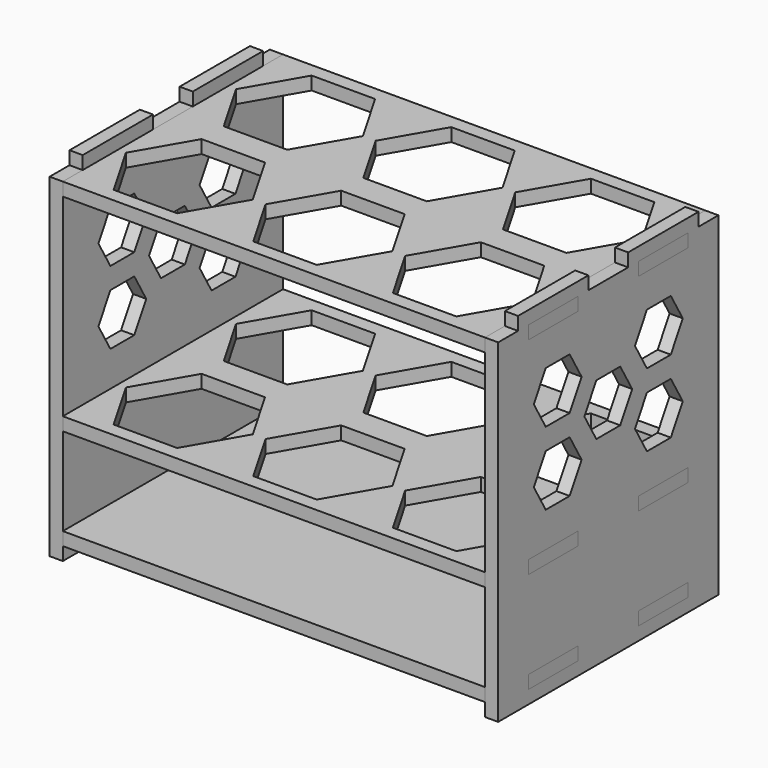
from build123d import *

# Parameters (mm, degrees)
F2_DEPTH = 50
F3_DEPTH = 47
F4_DEPTH = 3
F6_DEPTH = 23
F7_DEPTH = 20
F8_W     = 14
F8_H     = 3
F9_DEPTH = 3


with BuildPart() as f2:
    # F1 (on Top) → F2 (new body)
    with BuildSketch(Plane.XY):
        Polygon((48.0156521739, 22.652173913), (48.0156521739, 31.3043478261), (-48.0156521739, 31.3043478261), (-48.0156521739, 22.652173913), (-51.0156521739, 22.652173913), (-51.0156521739, 8.652173913), (-48.0156521739, 8.652173913), (-48.0156521739, -8.652173913), (-51.0156521739, -8.652173913), (-51.0156521739, -22.652173913), (-48.0156521739, -22.652173913), (-48.0156521739, -31.3043478261), (48.0156521739, -31.3043478261), (48.0156521739, -22.652173913), (51.0156521739, -22.652173913), (51.0156521739, -8.652173913), (48.0156521739, -8.652173913), (48.0156521739, 8.652173913), (51.0156521739, 8.652173913), (51.0156521739, 22.652173913), align=None)
        Polygon((-38.9747044518, -3.152173913), (-24.5409477221, -3.152173913), (-17.3240693572, -15.652173913), (-24.5409477221, -28.152173913), (-38.9747044518, -28.152173913), (-46.1915828167, -15.652173913), align=None, mode=Mode.SUBTRACT)
        Polygon((-7.2168783649, -3.152173913), (7.2168783649, -3.152173913), (14.4337567297, -15.652173913), (7.2168783649, -28.152173913), (-7.2168783649, -28.152173913), (-14.4337567297, -15.652173913), align=None, mode=Mode.SUBTRACT)
        Polygon((24.5409477221, -3.152173913), (38.9747044518, -3.152173913), (46.1915828167, -15.652173913), (38.9747044518, -28.152173913), (24.5409477221, -28.152173913), (17.3240693572, -15.652173913), align=None, mode=Mode.SUBTRACT)
        Polygon((-38.9747044518, 28.152173913), (-24.5409477221, 28.152173913), (-17.3240693572, 15.652173913), (-24.5409477221, 3.152173913), (-38.9747044518, 3.152173913), (-46.1915828167, 15.652173913), align=None, mode=Mode.SUBTRACT)
        Polygon((-7.2168783649, 28.152173913), (7.2168783649, 28.152173913), (14.4337567297, 15.652173913), (7.2168783649, 3.152173913), (-7.2168783649, 3.152173913), (-14.4337567297, 15.652173913), align=None, mode=Mode.SUBTRACT)
        Polygon((24.5409477221, 28.152173913), (38.9747044518, 28.152173913), (46.1915828167, 15.652173913), (38.9747044518, 3.152173913), (24.5409477221, 3.152173913), (17.3240693572, 15.652173913), align=None, mode=Mode.SUBTRACT)
    extrude(amount=F2_DEPTH)

    # F1 (on Top) → F3 (cut)
    with BuildSketch(Plane.XY):
        Polygon((48.0156521739, 22.652173913), (48.0156521739, 31.3043478261), (-48.0156521739, 31.3043478261), (-48.0156521739, 22.652173913), (-51.0156521739, 22.652173913), (-51.0156521739, 8.652173913), (-48.0156521739, 8.652173913), (-48.0156521739, -8.652173913), (-51.0156521739, -8.652173913), (-51.0156521739, -22.652173913), (-48.0156521739, -22.652173913), (-48.0156521739, -31.3043478261), (48.0156521739, -31.3043478261), (48.0156521739, -22.652173913), (51.0156521739, -22.652173913), (51.0156521739, -8.652173913), (48.0156521739, -8.652173913), (48.0156521739, 8.652173913), (51.0156521739, 8.652173913), (51.0156521739, 22.652173913), align=None)
        Polygon((-38.9747044518, -3.152173913), (-24.5409477221, -3.152173913), (-17.3240693572, -15.652173913), (-24.5409477221, -28.152173913), (-38.9747044518, -28.152173913), (-46.1915828167, -15.652173913), align=None, mode=Mode.SUBTRACT)
        Polygon((-7.2168783649, -3.152173913), (7.2168783649, -3.152173913), (14.4337567297, -15.652173913), (7.2168783649, -28.152173913), (-7.2168783649, -28.152173913), (-14.4337567297, -15.652173913), align=None, mode=Mode.SUBTRACT)
        Polygon((24.5409477221, -3.152173913), (38.9747044518, -3.152173913), (46.1915828167, -15.652173913), (38.9747044518, -28.152173913), (24.5409477221, -28.152173913), (17.3240693572, -15.652173913), align=None, mode=Mode.SUBTRACT)
        Polygon((-38.9747044518, 28.152173913), (-24.5409477221, 28.152173913), (-17.3240693572, 15.652173913), (-24.5409477221, 3.152173913), (-38.9747044518, 3.152173913), (-46.1915828167, 15.652173913), align=None, mode=Mode.SUBTRACT)
        Polygon((-7.2168783649, 28.152173913), (7.2168783649, 28.152173913), (14.4337567297, 15.652173913), (7.2168783649, 3.152173913), (-7.2168783649, 3.152173913), (-14.4337567297, 15.652173913), align=None, mode=Mode.SUBTRACT)
        Polygon((24.5409477221, 28.152173913), (38.9747044518, 28.152173913), (46.1915828167, 15.652173913), (38.9747044518, 3.152173913), (24.5409477221, 3.152173913), (17.3240693572, 15.652173913), align=None, mode=Mode.SUBTRACT)
    extrude(amount=F3_DEPTH, mode=Mode.SUBTRACT)


with BuildPart() as f4:
    # F1 (on Top) → F4 (new body)
    with BuildSketch(Plane.XY):
        Polygon((48.0156521739, 22.652173913), (48.0156521739, 31.3043478261), (-48.0156521739, 31.3043478261), (-48.0156521739, 22.652173913), (-51.0156521739, 22.652173913), (-51.0156521739, 8.652173913), (-48.0156521739, 8.652173913), (-48.0156521739, -8.652173913), (-51.0156521739, -8.652173913), (-51.0156521739, -22.652173913), (-48.0156521739, -22.652173913), (-48.0156521739, -31.3043478261), (48.0156521739, -31.3043478261), (48.0156521739, -22.652173913), (51.0156521739, -22.652173913), (51.0156521739, -8.652173913), (48.0156521739, -8.652173913), (48.0156521739, 8.652173913), (51.0156521739, 8.652173913), (51.0156521739, 22.652173913), align=None)
        Polygon((-38.9747044518, -3.152173913), (-24.5409477221, -3.152173913), (-17.3240693572, -15.652173913), (-24.5409477221, -28.152173913), (-38.9747044518, -28.152173913), (-46.1915828167, -15.652173913), align=None, mode=Mode.SUBTRACT)
        Polygon((-7.2168783649, -3.152173913), (7.2168783649, -3.152173913), (14.4337567297, -15.652173913), (7.2168783649, -28.152173913), (-7.2168783649, -28.152173913), (-14.4337567297, -15.652173913), align=None, mode=Mode.SUBTRACT)
        Polygon((24.5409477221, -3.152173913), (38.9747044518, -3.152173913), (46.1915828167, -15.652173913), (38.9747044518, -28.152173913), (24.5409477221, -28.152173913), (17.3240693572, -15.652173913), align=None, mode=Mode.SUBTRACT)
        Polygon((-38.9747044518, 28.152173913), (-24.5409477221, 28.152173913), (-17.3240693572, 15.652173913), (-24.5409477221, 3.152173913), (-38.9747044518, 3.152173913), (-46.1915828167, 15.652173913), align=None, mode=Mode.SUBTRACT)
        Polygon((-7.2168783649, 28.152173913), (7.2168783649, 28.152173913), (14.4337567297, 15.652173913), (7.2168783649, 3.152173913), (-7.2168783649, 3.152173913), (-14.4337567297, 15.652173913), align=None, mode=Mode.SUBTRACT)
        Polygon((24.5409477221, 28.152173913), (38.9747044518, 28.152173913), (46.1915828167, 15.652173913), (38.9747044518, 3.152173913), (24.5409477221, 3.152173913), (17.3240693572, 15.652173913), align=None, mode=Mode.SUBTRACT)
    extrude(amount=F4_DEPTH)


with BuildPart() as f6:
    # F5 (on face) → F6 (new body)
    with BuildSketch(Plane.XY):
        Polygon((-48.0156521739, -22.652173913), (-48.0156521739, -31.3043478261), (0, -31.3043478261), (48.0156521739, -31.3043478261), (48.0156521739, -22.652173913), (51.0156521739, -22.652173913), (51.0156521739, -8.652173913), (48.0156521739, -8.652173913), (48.0156521739, 0), (48.0156521739, 8.652173913), (51.0156521739, 8.652173913), (51.0156521739, 22.652173913), (48.0156521739, 22.652173913), (48.0156521739, 31.3043478261), (0, 31.3043478261), (-48.0156521739, 31.3043478261), (-48.0156521739, 22.652173913), (-51.0156521739, 22.652173913), (-51.0156521739, 8.652173913), (-48.0156521739, 8.652173913), (-48.0156521739, 0), (-48.0156521739, -8.652173913), (-51.0156521739, -8.652173913), (-51.0156521739, -22.652173913), align=None)
    extrude(amount=-F6_DEPTH)

    # F5 (on face) → F7 (cut)
    with BuildSketch(Plane.XY):
        Polygon((-48.0156521739, -22.652173913), (-48.0156521739, -31.3043478261), (0, -31.3043478261), (48.0156521739, -31.3043478261), (48.0156521739, -22.652173913), (51.0156521739, -22.652173913), (51.0156521739, -8.652173913), (48.0156521739, -8.652173913), (48.0156521739, 0), (48.0156521739, 8.652173913), (51.0156521739, 8.652173913), (51.0156521739, 22.652173913), (48.0156521739, 22.652173913), (48.0156521739, 31.3043478261), (0, 31.3043478261), (-48.0156521739, 31.3043478261), (-48.0156521739, 22.652173913), (-51.0156521739, 22.652173913), (-51.0156521739, 8.652173913), (-48.0156521739, 8.652173913), (-48.0156521739, 0), (-48.0156521739, -8.652173913), (-51.0156521739, -8.652173913), (-51.0156521739, -22.652173913), align=None)
    extrude(amount=-F7_DEPTH, mode=Mode.SUBTRACT)


with BuildPart() as f9:
    # F8 (on face) → F9 (new body)
    with BuildSketch(Plane(origin=(-51.0156521739, 0, 0), x_dir=(0, -1, 0), z_dir=(-1, 0, 0))):
        Polygon((31.3043478261, -26), (31.3043478261, -23), (31.3043478261, 50), (25.652173913, 50), (25.652173913, 53), (5.652173913, 53), (5.652173913, 50), (0, 50), (-5.652173913, 50), (-5.652173913, 53), (-25.652173913, 53), (-25.652173913, 50), (-31.3043478261, 50), (-31.3043478261, -23), (-31.3043478261, -26), (0, -26), align=None)
        with Locations((-15.652173913, -21.5)):
            Rectangle(F8_W, F8_H, mode=Mode.SUBTRACT)
        with Locations((-15.652173913, 1.5)):
            Rectangle(F8_W, F8_H, mode=Mode.SUBTRACT)
        with Locations((15.652173913, -21.5)):
            Rectangle(F8_W, F8_H, mode=Mode.SUBTRACT)
        with Locations((15.652173913, 1.5)):
            Rectangle(F8_W, F8_H, mode=Mode.SUBTRACT)
        Polygon((-10.9860279676, 22.7545967357), (-7.5881727197, 16.8693388096), (-10.9860279676, 10.9840808834), (-17.7817384634, 10.9840808834), (-21.1795937113, 16.8693388096), (-17.7817384634, 22.7545967357), align=None, mode=Mode.SUBTRACT)
        Polygon((3.3978552479, 31.0591355822), (6.7957104958, 25.173877656), (3.3978552479, 19.2886197299), (-3.3978552479, 19.2886197299), (-6.7957104958, 25.173877656), (-3.3978552479, 31.0591355822), align=None, mode=Mode.SUBTRACT)
        Polygon((-10.9860279676, 39.3636744286), (-7.5881727197, 33.4784165025), (-10.9860279676, 27.5931585763), (-17.7817384634, 27.5931585763), (-21.1795937113, 33.4784165025), (-17.7817384634, 39.3636744286), align=None, mode=Mode.SUBTRACT)
        with Locations((-15.652173913, 48.5)):
            Rectangle(F8_W, F8_H, mode=Mode.SUBTRACT)
        Polygon((17.7817384634, 22.7545967357), (21.1795937113, 16.8693388096), (17.7817384634, 10.9840808834), (10.9860279676, 10.9840808834), (7.5881727197, 16.8693388096), (10.9860279676, 22.7545967357), align=None, mode=Mode.SUBTRACT)
        Polygon((17.7817384634, 39.3636744286), (21.1795937113, 33.4784165025), (17.7817384634, 27.5931585763), (10.9860279676, 27.5931585763), (7.5881727197, 33.4784165025), (10.9860279676, 39.3636744286), align=None, mode=Mode.SUBTRACT)
        with Locations((15.652173913, 48.5)):
            Rectangle(F8_W, F8_H, mode=Mode.SUBTRACT)
    extrude(amount=-F9_DEPTH)


with BuildPart() as f10_1:
    # F10: instance of F9
    add(f9.part.mirror(Plane.YZ))


solid = Compound([f2.part, f4.part, f6.part, f9.part, f10_1.part])
